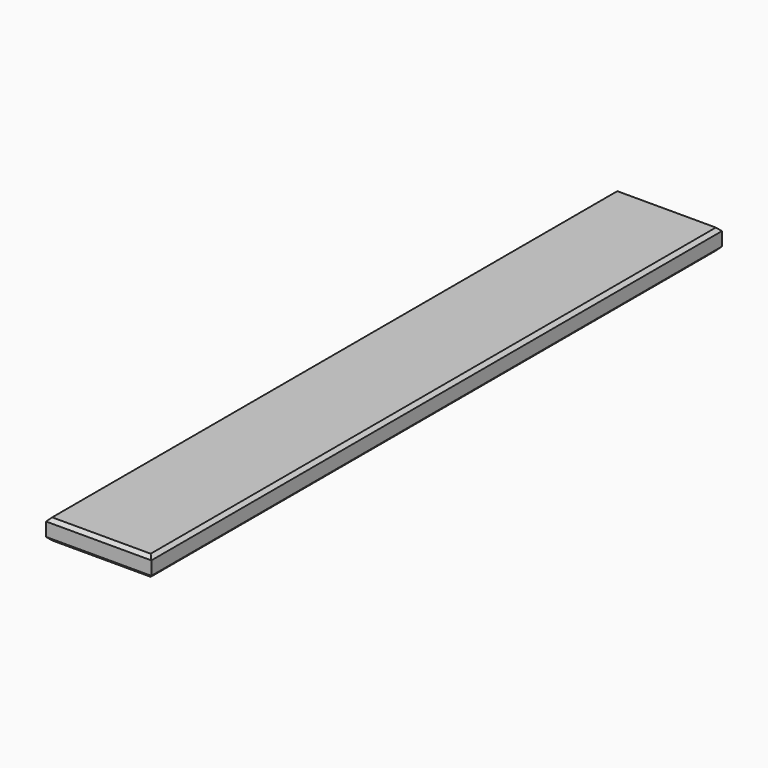
from build123d import *

# Parameters (mm, degrees)
F0_W     = 31
F0_H     = 210
F1_DEPTH = 3
F2_SIZE  = 1


with BuildPart() as f1:
    # F0 (on Top) → F1 (new body, symmetric)
    with BuildSketch(Plane.XY):
        Rectangle(F0_W, F0_H)
    extrude(amount=F1_DEPTH, both=True)

    # F2
    f2_edges = [f1.edges().sort_by_distance(p)[0] for p in [
        (15.5, 0, 3),
        (0, 105, 3),
        (-15.5, 0, 3),
        (0, -105, 3),
        (15.5, 0, -3),
        (-15.5, 0, -3),
        (0, -105, -3),
        (0, 105, -3),
    ]]
    chamfer(f2_edges, length=F2_SIZE)


solid = f1.part
